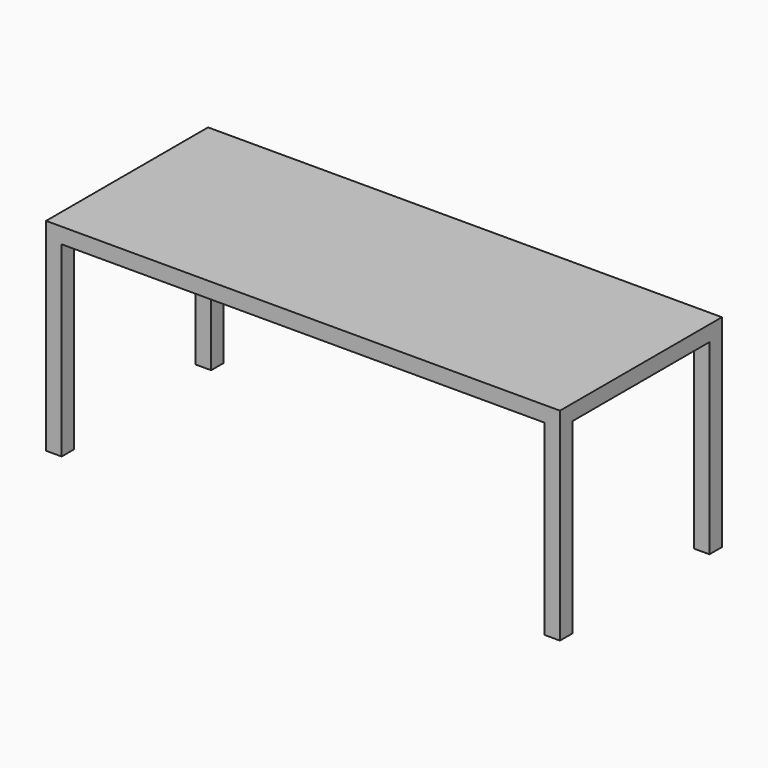
from build123d import *

# Parameters (mm, degrees)
F0_W     = 6.35
F0_H     = 6.35
F1_DEPTH = 76.2
F2_W     = 209.55
F2_H     = 82.55
F3_DEPTH = 6.35


with BuildPart() as f1:
    # F0 (on Top) → F1 (new body)
    with BuildSketch(Plane.XY):
        with Locations((3.175, -3.175)):
            Rectangle(F0_W, F0_H)
        with Locations((3.175, 73.025)):
            Rectangle(F0_W, F0_H)
        with Locations((206.375, -3.175)):
            Rectangle(F0_W, F0_H)
        with Locations((206.375, 73.025)):
            Rectangle(F0_W, F0_H)
    extrude(amount=F1_DEPTH)

    # F2 (on face) → F3 (join)
    with BuildSketch(Plane.XY.offset(76.2)):
        with Locations((104.775, 34.925)):
            Rectangle(F2_W, F2_H)
    extrude(amount=F3_DEPTH)


solid = f1.part
